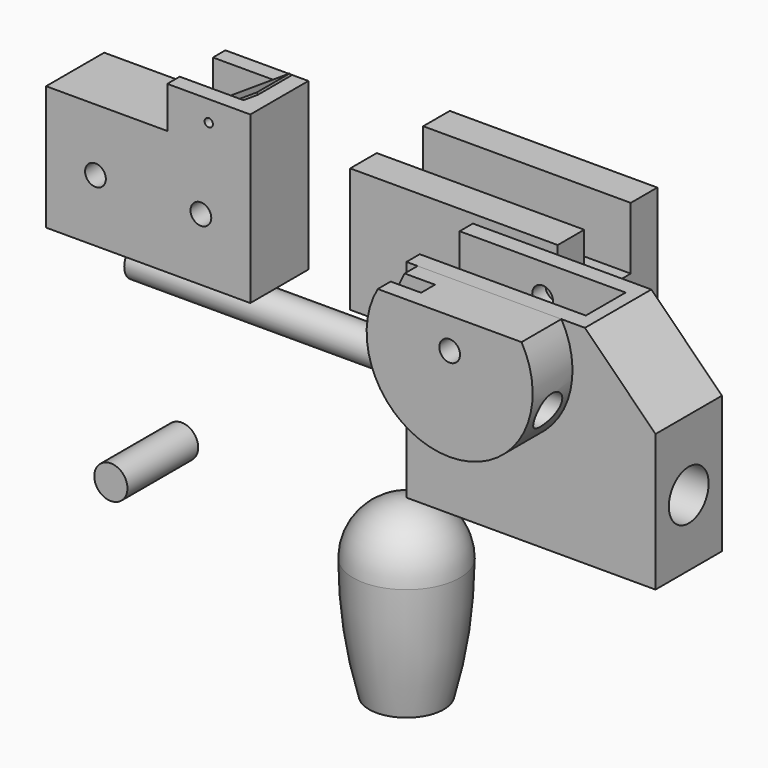
from build123d import *

# Parameters (mm, degrees)
F1_DEPTH   = 20
F3_DEPTH   = 40
F5_DEPTH   = 25
F7_DEPTH   = 12
F9_D       = 5
F9_DEPTH   = 50
F9_TIP     = 1.5021515476
F9_2_D     = 5
F9_2_DEPTH = 50
F9_2_TIP   = 1.5021515476
F10_W      = 10
F10_H      = 4.2
F11_DEPTH  = 25
F12_R      = 4
F13_DEPTH  = 30
F14_R      = 4
F15_DEPTH  = 70
F18_R      = 2.5
F19_DEPTH  = 17.5
F21_DEPTH  = 10
F22_R      = 1
F23_DEPTH  = 25
F25_DEPTH  = 10
F28_R      = 0.8838468807
F29_DEPTH  = 3.5
F31_DEPTH  = 50
F32_R      = 2.5
F33_DEPTH  = 25
F34_R      = 2.25
F35_DEPTH  = 20


with BuildPart() as f1:
    # F0 (on Front) → F1 (new body)
    with BuildSketch(Plane.XZ):
        Polygon((0, 50), (0, 0), (60, 0), (60, 33), (43, 50), align=None)
    extrude(amount=-F1_DEPTH)

    # F2 (on face) → F3 (cut)
    with BuildSketch(Plane(origin=(0, 0, 0), x_dir=(0, -1, 0), z_dir=(-1, 0, 0))):
        with BuildLine():
            Line((-4, 50), (-16, 50))
            Line((-16, 50), (-16, 16))
            ThreePointArc((-16, 16), (-10, 22), (-4, 16))
            Line((-4, 16), (-4, 50))
        make_face()
        with BuildLine():
            ThreePointArc((-4, 16), (-10, 22), (-16, 16))
            Line((-16, 16), (-10, 16))
            Line((-10, 16), (-4, 16))
        make_face()
        with BuildLine():
            Line((-10, 16), (-16, 16))
            ThreePointArc((-16, 16), (-14.2426406871, 11.7573593129), (-10, 10))
            Line((-10, 10), (-10, 16))
        make_face()
        with BuildLine():
            ThreePointArc((-10, 10), (-5.7573593129, 11.7573593129), (-4, 16))
            Line((-4, 16), (-10, 16))
            Line((-10, 16), (-10, 10))
        make_face()
    extrude(amount=-F3_DEPTH, mode=Mode.SUBTRACT)

    # F4 (on face) → F5 (cut)
    with BuildSketch(Plane(origin=(40, 0, 0), x_dir=(0, -1, 0), z_dir=(-1, 0, 0))):
        with BuildLine():
            ThreePointArc((-16, 16), (-10, 10), (-4, 16))
            ThreePointArc((-4, 16), (-10, 22), (-16, 16))
        make_face()
    extrude(amount=-F5_DEPTH, mode=Mode.SUBTRACT)

    # F9
    with Locations(Plane.XZ.offset(12)):
        with Locations((20, 42.5)):
            Hole(F9_D / 2, depth=F9_DEPTH)
            with Locations((0, 0, -(F9_DEPTH + F9_TIP / 2))):  # 118° drill point
                Cone(0, F9_D / 2, F9_TIP, mode=Mode.SUBTRACT)


with BuildPart() as f7:
    # F6 (on Front) → F7 (new body)
    with BuildSketch(Plane.XZ):
        with BuildLine():
            Line((37.3205080757, 50), (2.6794919243, 50))
            ThreePointArc((2.6794919243, 50), (20, 20), (37.3205080757, 50))
        make_face()
    extrude(amount=F7_DEPTH)

    # F9#2
    with Locations(Plane.XZ.offset(12)):
        with Locations((20, 42.5)):
            Hole(F9_2_D / 2, depth=F9_2_DEPTH)
            with Locations((0, 0, -(F9_2_DEPTH + F9_2_TIP / 2))):  # 118° drill point
                Cone(0, F9_2_D / 2, F9_2_TIP, mode=Mode.SUBTRACT)

    # F10 (on face) → F11 (cut)
    with BuildSketch(Plane.XY.offset(50)):
        with Locations((5, -6)):
            Rectangle(F10_W, F10_H)
    extrude(amount=-F11_DEPTH, mode=Mode.SUBTRACT)

    # F12 (on face) → F13 (cut)
    with BuildSketch(Plane(origin=(10, 0, 0), x_dir=(0, -1, 0), z_dir=(-1, 0, 0))):
        with Locations((6, 33.5)):
            Circle(F12_R)
    extrude(amount=-F13_DEPTH, mode=Mode.SUBTRACT)


with BuildPart() as f15:
    # F14 (on face) → F15 (new body)
    with BuildSketch(Plane(origin=(10, 0, 0), x_dir=(0, -1, 0), z_dir=(-1, 0, 0))):
        with Locations((6, 33.5)):
            Circle(F14_R)
    extrude(amount=F15_DEPTH)


with BuildPart() as f17:
    # F16 (on Front) → F17 (revolve)
    with BuildSketch(Plane.XZ):
        with BuildLine():
            Line((-4, -16.5), (0, -16.5))
            Line((0, -16.5), (0, -12.85))
            Line((0, -12.85), (-12.85, -12.85))
            ThreePointArc((-12.85, -12.85), (-11.8833387699, -27.5515730451), (-9, -42))
            Line((-9, -42), (-4, -42))
            Line((-4, -42), (-4, -16.5))
        make_face()
        with BuildLine():
            Line((-12.85, -12.85), (0, -12.85))
            Line((0, -12.85), (0, 0))
            ThreePointArc((0, 0), (-9.0863221382, -3.7636778618), (-12.85, -12.85))
        make_face()
    revolve(axis=Axis((0, 0, -8.25), (0, 0, 1)))


with BuildPart() as f19:
    # F18 (on Front) → F19 (new body)
    with BuildSketch(Plane.XZ):
        Polygon((-23.6323255062, 55.6927844882), (-23.6323255062, 70.6927844882), (-72.8323255062, 70.6927844882), (-72.8323255062, 55.6927844882), (-72.8323255062, 40.6927844882), (-23.6323255062, 40.6927844882), align=None)
        with BuildLine():
            ThreePointArc((-58.4323255062, 55.6927844882), (-60.9323255062, 53.1927844882), (-63.4323255062, 55.6927844882))
            ThreePointArc((-63.4323255062, 55.6927844882), (-60.9323255062, 58.1927844882), (-58.4323255062, 55.6927844882))
        make_face(mode=Mode.SUBTRACT)
        with Locations((-35.5323255062, 55.6927844882)):
            Circle(F18_R, mode=Mode.SUBTRACT)
    extrude(amount=F19_DEPTH)

    # F20 (on face) → F21 (join)
    with BuildSketch(Plane.XY.offset(70.6927844882)):
        Polygon((-23.6323255062, 0), (-43.6323255062, 0), (-43.6323255062, -3.75), (-28.6323255062, -3.75), (-28.6323255062, -13.75), (-43.6323255062, -13.75), (-43.6323255062, -17.5), (-23.6323255062, -17.5), align=None)
    extrude(amount=F21_DEPTH)

    # F22 (on face) → F23 (cut)
    with BuildSketch(Plane.XZ.offset(17.5)):
        with Locations((-33.6323255062, 75.6927844882)):
            Circle(F22_R)
    extrude(amount=-F23_DEPTH, mode=Mode.SUBTRACT)


with BuildPart() as f25:
    # F24 (on face) → F25 (new body)
    with BuildSketch(Plane.XZ.offset(3.75)):
        Polygon((-25.0690026892, 83.3849342133), (-41.7937733512, 72.4176170252), (-41.4434674402, 72.0494156259), (-24.7948197595, 82.9668149468), (-24.9319112244, 83.17587458), align=None)
        with BuildLine():
            ThreePointArc((-28.9901627286, 80.434045283), (-29.2309043161, 80.3988659036), (-29.0102957535, 80.5014620186))
            ThreePointArc((-29.0102957535, 80.5014620186), (-28.9953034637, 80.4692246624), (-28.9901627286, 80.434045283))
        make_face(mode=Mode.SUBTRACT)
    extrude(amount=F25_DEPTH)


with BuildPart() as f27:
    # F26 (on Right) → F27 (revolve)
    with BuildSketch(Plane.YZ):
        with BuildLine():
            ThreePointArc((-70.4967417681, 39.4630262688), (-69.6850300276, 41.4226717615), (-67.7253845349, 42.234383502))
            Line((-67.7253845349, 42.234383502), (-67.7253845349, 43.4630262688))
            Line((-67.7253845349, 43.4630262688), (-89.0335151806, 43.4630262688))
            Line((-89.0335151806, 43.4630262688), (-89.0335151806, 39.4630262688))
            Line((-89.0335151806, 39.4630262688), (-70.4967417681, 39.4630262688))
        make_face()
    revolve(axis=Axis((0, -78.3794498578, 39.4630262688), (0, -1, 0)))

    # F28 (on face) → F29 (cut, symmetric)
    with BuildSketch(Plane.YZ):
        with Locations((-67.7253845349, 39.4630262688)):
            Circle(F28_R)
    extrude(amount=F29_DEPTH, both=True, mode=Mode.SUBTRACT)


with BuildPart() as f31:
    # F30 (on Right) → F31 (new body)
    with BuildSketch(Plane.YZ):
        Polygon((45.537743755, 35.0616219081), (45.537743755, 5.0616219081), (75.537743755, 5.0616219081), (75.537743755, 35.0616219081), (67.537743755, 35.0616219081), (67.537743755, 20.0616219081), (53.537743755, 20.0616219081), (53.537743755, 35.0616219081), align=None)
    extrude(amount=-F31_DEPTH)

    # F32 (on face) → F33 (cut)
    with BuildSketch(Plane.XY.offset(20.0616219081)):
        with Locations((-25, 60.537743755)):
            Circle(F32_R)
    extrude(amount=-F33_DEPTH, mode=Mode.SUBTRACT)


with BuildPart() as f35:
    # F34 (on face) → F35 (new body)
    with BuildSketch(Plane.XY.offset(20.0616219081)):
        with Locations((-25, 60.537743755)):
            Circle(F34_R)
    extrude(amount=-F35_DEPTH)


solid = Compound([f1.part, f7.part, f15.part, f17.part, f19.part, f25.part, f27.part, f31.part, f35.part])
